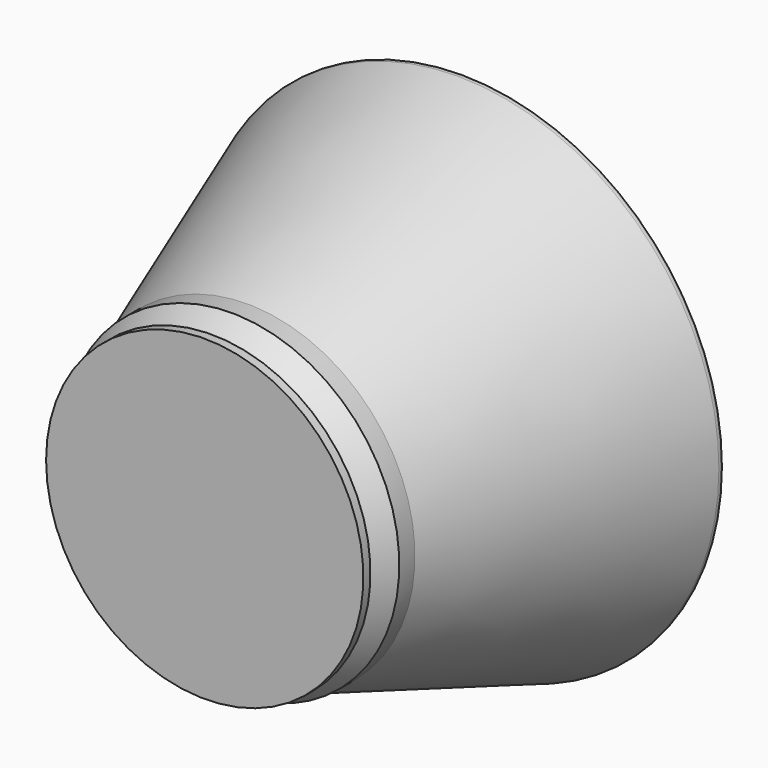
from build123d import *


with BuildPart() as f1:
    # F0 (on Top) → F1 (revolve)
    with BuildSketch(Plane.XY):
        with BuildLine():
            Line((-118.527792, 143.929252), (-76.2, 24.190545))
            Line((-76.2, 24.190545), (-76.2, 15.299303))
            Line((-76.2, 15.299303), (-70.070826, 5.283675))
            Line((-70.070826, 5.283675), (-72.100774, 4.041425))
            Line((-72.100774, 4.041425), (-72.100774, 0))
            Line((-72.100774, 0), (-67.64861, 0))
            Line((-67.64861, 0), (-63.300512, 0))
            Line((-63.300512, 0), (-62.260545, 0))
            Line((-62.260545, 0), (-21.51492, 0))
            Line((-21.51492, 0), (-13.889255, 0))
            Line((-13.889255, 0), (0, 0))
            Line((0, 0), (0, 5.08))
            Line((0, 5.08), (-44.956342, 5.265751))
            ThreePointArc((-44.956342, 5.265751), (-60.350121, 10.102097), (-70.31728, 22.791244))
            Line((-70.31728, 22.791244), (-110.759814, 137.19685))
            ThreePointArc((-110.759814, 137.19685), (-114.884735, 141.250622), (-118.318713, 145.904205))
            ThreePointArc((-118.318713, 145.904205), (-118.646802, 144.940395), (-118.527792, 143.929252))
        make_face()
    revolve(axis=Axis((0, 2.54, 0), (0, 1, 0)))


solid = f1.part
